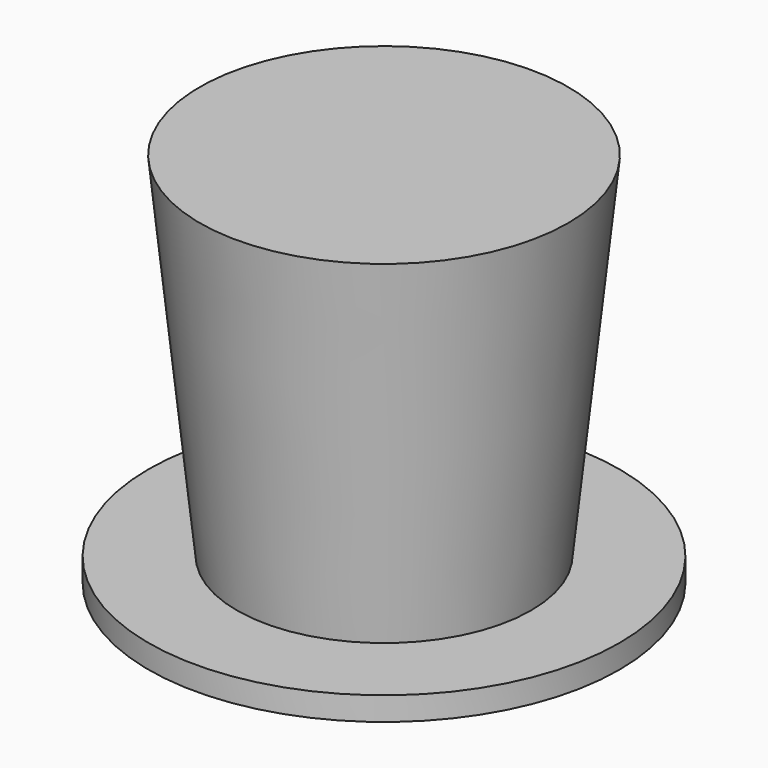
from build123d import *

# Parameters (mm, degrees)
F0_R     = 20
F1_DEPTH = 2
F2_R     = 12.5
F3_DEPTH = 30
F3_TAPER = -6


with BuildPart() as f1:
    # F0 (on Top) → F1 (new body)
    with BuildSketch(Plane.XY):
        Circle(F0_R)
    extrude(amount=F1_DEPTH)

    # F2 (on face) → F3 (join)
    with BuildSketch(Plane.XY.offset(2)):
        Circle(F2_R)
    extrude(amount=F3_DEPTH, taper=F3_TAPER)


solid = f1.part
